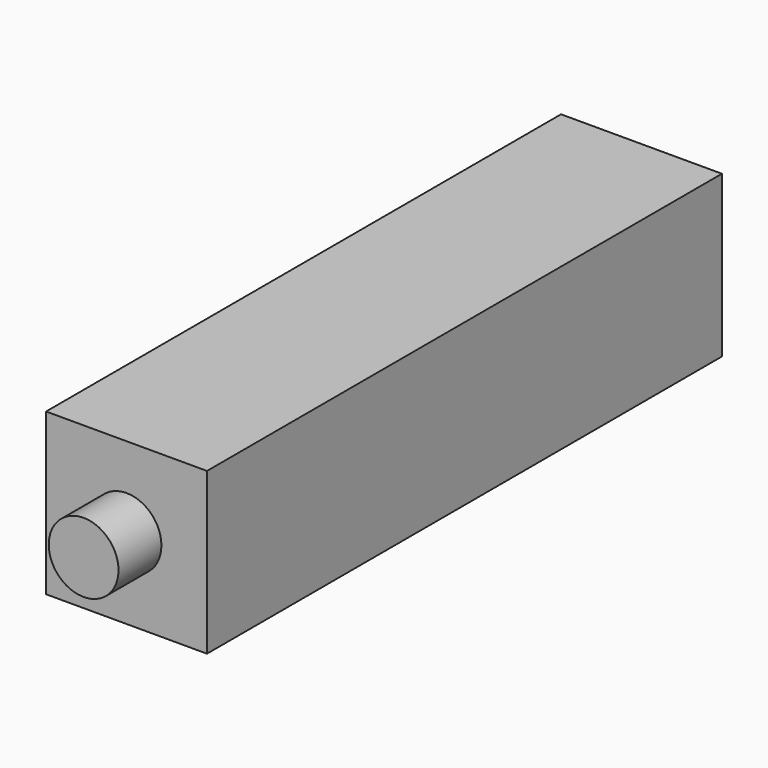
from build123d import *

# Parameters (mm, degrees)
F0_W     = 30
F0_H     = 30
F1_DEPTH = 60
F2_R     = 6.5
F3_DEPTH = 10
F4_R     = 10
F5_DEPTH = 40


with BuildPart() as f1:
    # F0 (on Front) → F1 (new body, symmetric)
    with BuildSketch(Plane.XZ):
        Rectangle(F0_W, F0_H)
    extrude(amount=F1_DEPTH, both=True)

    # F2 (on face) → F3 (join)
    with BuildSketch(Plane.XZ.offset(60)):
        Circle(F2_R)
    extrude(amount=F3_DEPTH)

    # F4 (on face) → F5 (cut)
    with BuildSketch(Plane(origin=(0, 60, 0), x_dir=(-1, 0, 0), z_dir=(0, 1, 0))):
        with Locations((-0.812379, 0)):
            Circle(F4_R)
    extrude(amount=-F5_DEPTH, mode=Mode.SUBTRACT)


solid = f1.part
